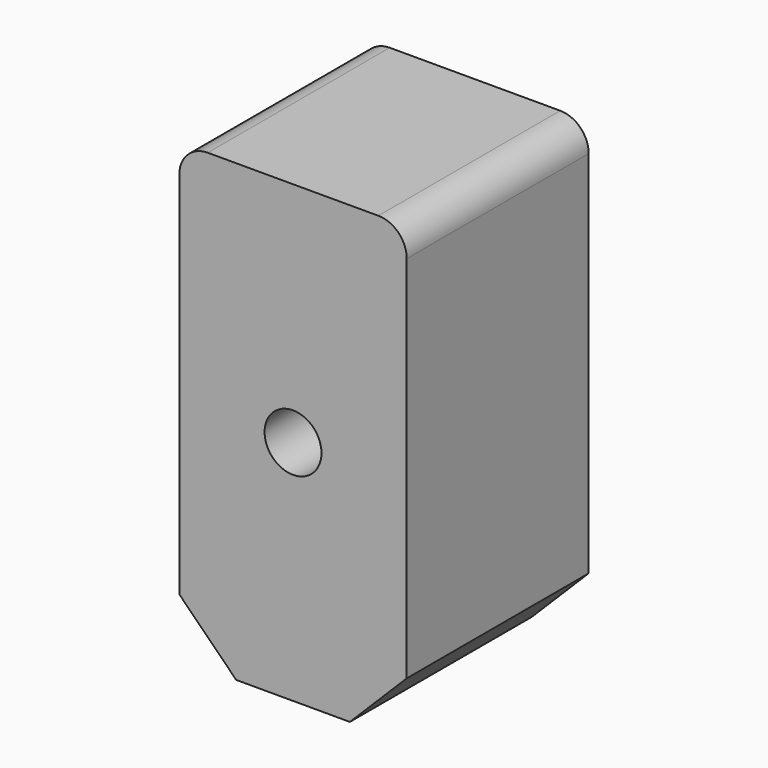
from build123d import *

# Parameters (mm, degrees)
F0_R     = 25
F1_DEPTH = 200
F2_SIZE  = 50


with BuildPart() as f1:
    # F0 (on Front) → F1 (new body)
    with BuildSketch(Plane.XZ):
        with BuildLine():
            ThreePointArc((100, 175), (92.67767, 192.67767), (75, 200))
            Line((75, 200), (-75, 200))
            ThreePointArc((-75, 200), (-92.67767, 192.67767), (-100, 175))
            Line((-100, 175), (-100, -200))
            Line((-100, -200), (100, -200))
            Line((100, -200), (100, 175))
        make_face()
        Circle(F0_R, mode=Mode.SUBTRACT)
    extrude(amount=F1_DEPTH)

    # F2
    f2_edges = [f1.edges().sort_by_distance(p)[0] for p in [
        (-100, -100, -200),
        (100, -100, -200),
    ]]
    chamfer(f2_edges, length=F2_SIZE)


solid = f1.part
